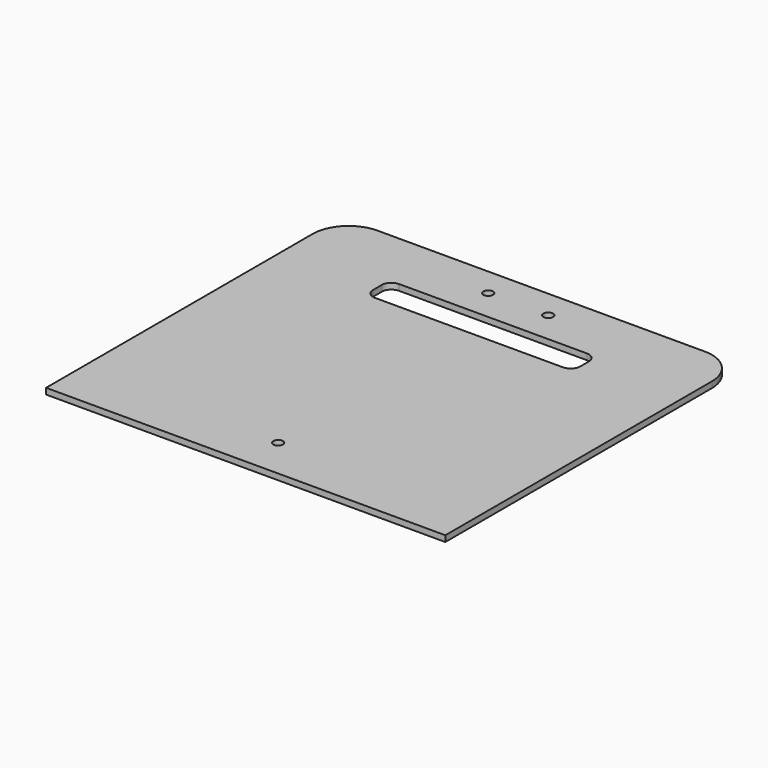
from build123d import *

# Parameters (mm, degrees)
F0_W     = 211.1375
F0_H     = 195.2625
F0_R     = 2.54
F0_W_2   = 109.5375
F0_H_2   = 15.875
F1_DEPTH = 3.175
F2_R     = 19.05
F3_R     = 5.08


with BuildPart() as f1:
    # F0 (on Top) → F1 (new body)
    with BuildSketch(Plane.XY):
        Rectangle(F0_W, F0_H)
        with Locations((0, -76.2)):
            Circle(F0_R, mode=Mode.SUBTRACT)
        with Locations((-15.875, 82.55)):
            Circle(F0_R, mode=Mode.SUBTRACT)
        with Locations((0, 57.94375)):
            Rectangle(F0_W_2, F0_H_2, mode=Mode.SUBTRACT)
        with Locations((15.875, 82.55)):
            Circle(F0_R, mode=Mode.SUBTRACT)
    extrude(amount=F1_DEPTH)

    # F2
    f2_edges = [f1.edges().sort_by_distance(p)[0] for p in [
        (-105.56875, 97.63125, 1.5875),
        (105.56875, 97.63125, 1.5875),
    ]]
    fillet(f2_edges, radius=F2_R)

    # F3
    f3_edges = [f1.edges().sort_by_distance(p)[0] for p in [
        (-54.76875, 50.00625, 1.5875),
        (-54.76875, 65.88125, 1.5875),
        (54.76875, 50.00625, 1.5875),
        (54.76875, 65.88125, 1.5875),
    ]]
    fillet(f3_edges, radius=F3_R)


solid = f1.part
